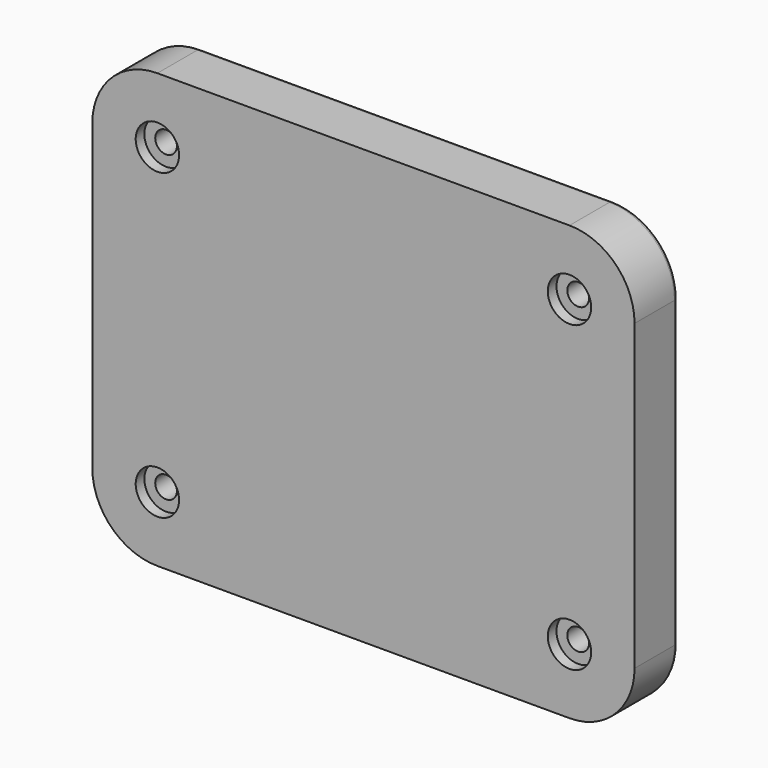
from build123d import *

# Parameters (mm, degrees)
F0_W           = 250
F0_H           = 200
F1_DEPTH       = 25
F2_R           = 30
F4_D           = 10
F4_CBORE_D     = 20
F4_CBORE_DEPTH = 5
F5_R           = 2


with BuildPart() as f1:
    # F0 (on Front) → F1 (new body)
    with BuildSketch(Plane.XZ):
        Rectangle(F0_W, F0_H)
    extrude(amount=F1_DEPTH)

    # F2
    f2_edges = [f1.edges().sort_by_distance(p)[0] for p in [
        (-125, -12.5, 100),
        (-125, -12.5, -100),
        (125, -12.5, 100),
        (125, -12.5, -100),
    ]]
    fillet(f2_edges, radius=F2_R)

    # F4 (through all)
    with Locations(Plane.XZ.offset(25)):
        with Locations((-95, 70), (-95, -70), (95, -70), (95, 70)):
            CounterBoreHole(F4_D / 2, F4_CBORE_D / 2, F4_CBORE_DEPTH)

    # F5
    f5_edges = [f1.edges().sort_by_distance(p)[0] for p in [
        (0, 0, -100),
    ]]
    fillet(f5_edges, radius=F5_R)


solid = f1.part
